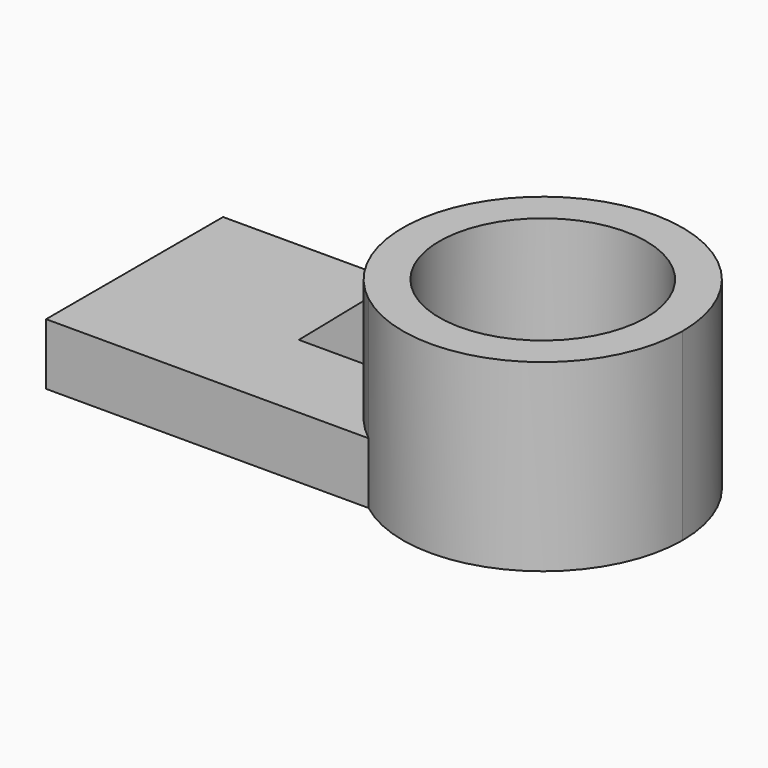
from build123d import *

# Parameters (mm, degrees)
F0_R     = 42.787577
F1_DEPTH = 76.2
F2_DEPTH = 25.4
F4_DEPTH = 6.35
F5_DEPTH = 6.35


with BuildPart() as f1:
    # F0 (on Top) → F1 (new body)
    with BuildSketch(Plane.XY):
        with BuildLine():
            ThreePointArc((142.343952, 0), (109.939663, 51.98168), (49.000279, 45.77487))
            ThreePointArc((49.000279, 45.77487), (26.552708, 0), (49.000279, -45.77487))
            ThreePointArc((49.000279, -45.77487), (109.939663, -51.98168), (142.343952, 0))
        make_face()
        with Locations((84.44833, 0)):
            Circle(F0_R, mode=Mode.SUBTRACT)
    extrude(amount=F1_DEPTH)

    # F0 (on Top) → F2 (join)
    with BuildSketch(Plane.XY):
        with BuildLine():
            ThreePointArc((49.000279, -45.77487), (26.552708, 0), (49.000279, 45.77487))
            Line((49.000279, 45.77487), (-84.44833, 45.77487))
            Line((-84.44833, 45.77487), (-84.44833, -45.77487))
            Line((-84.44833, -45.77487), (49.000279, -45.77487))
        make_face()
        with BuildLine():
            ThreePointArc((142.343952, 0), (109.939663, 51.98168), (49.000279, 45.77487))
            ThreePointArc((49.000279, 45.77487), (26.552708, 0), (49.000279, -45.77487))
            ThreePointArc((49.000279, -45.77487), (109.939663, -51.98168), (142.343952, 0))
        make_face()
        with Locations((84.44833, 0)):
            Circle(F0_R, mode=Mode.SUBTRACT)
    extrude(amount=F2_DEPTH)

    # F3 (on Front) → F4 (join)
    with BuildSketch(Plane.XZ):
        Polygon((26.194429, 25.590243), (26.842287, 58.30688), (-11.381116, 25.590243), align=None)
    extrude(amount=-F4_DEPTH)

    # F4_face (on face) → F5 (join)
    with BuildSketch(Plane(origin=(13.84183, 0, 36.438522), x_dir=(1, 0, 0), z_dir=(0, -1, 0))):
        Polygon((-25.222946, -10.84828), (12.352599, -10.84828), (12.710878, 7.244718), (12.710878, 21.620498), align=None)
    extrude(amount=F5_DEPTH)


solid = f1.part
